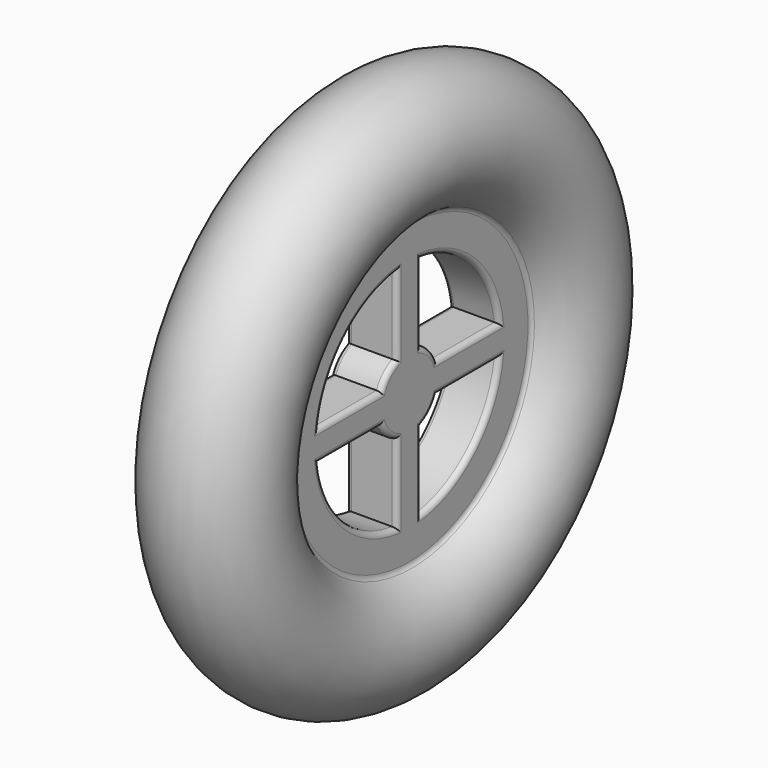
from build123d import *

# Parameters (mm, degrees)
F0_W     = 10
F0_H     = 30
F3_DEPTH = 25
F4_R     = 1
F5_R     = 1


with BuildPart() as f1:
    # F0 (on Front) → F1 (revolve)
    with BuildSketch(Plane.XZ):
        with Locations((-5, 15)):
            Rectangle(F0_W, F0_H)
        with BuildLine():
            ThreePointArc((0, 30), (-5, 53.956439), (-10, 30))
            Line((-10, 30), (0, 30))
        make_face()
    revolve(axis=Axis((-8.722244, 0, 0), (1, 0, 0)))

    # F2 (on Right) → F3 (cut)
    with BuildSketch(Plane.YZ):
        with BuildLine():
            Line((-3, 6.873864), (-3, 22.299103))
            ThreePointArc((-3, 22.299103), (-15.909903, 15.909903), (-22.299103, 3))
            Line((-22.299103, 3), (-6.873864, 3))
            ThreePointArc((-6.873864, 3), (-5.303301, 5.303301), (-3, 6.873864))
        make_face()
        with BuildLine():
            Line((6.873864, 3), (22.299103, 3))
            ThreePointArc((22.299103, 3), (15.909903, 15.909903), (3, 22.299103))
            Line((3, 22.299103), (3, 6.873864))
            ThreePointArc((3, 6.873864), (5.303301, 5.303301), (6.873864, 3))
        make_face()
        with BuildLine():
            Line((3, -6.873864), (3, -22.299103))
            ThreePointArc((3, -22.299103), (15.909903, -15.909903), (22.299103, -3))
            Line((22.299103, -3), (6.873864, -3))
            ThreePointArc((6.873864, -3), (5.303301, -5.303301), (3, -6.873864))
        make_face()
        with BuildLine():
            Line((-6.873864, -3), (-22.299103, -3))
            ThreePointArc((-22.299103, -3), (-15.909903, -15.909903), (-3, -22.299103))
            Line((-3, -22.299103), (-3, -6.873864))
            ThreePointArc((-3, -6.873864), (-5.303301, -5.303301), (-6.873864, -3))
        make_face()
    extrude(amount=-F3_DEPTH, mode=Mode.SUBTRACT)

    # F4
    f4_edges = [f1.edges().sort_by_distance(p)[0] for p in [
        (0, 0, -30),
        (0, 14.586483, 3),
        (0, 5.303301, 5.303301),
        (0, 3, 14.586483),
        (0, 15.909903, 15.909903),
        (0, 5.303301, -5.303301),
        (0, 14.586483, -3),
        (0, 15.909903, -15.909903),
        (0, 3, -14.586483),
        (0, -3, 14.586483),
        (0, -5.303301, 5.303301),
        (0, -14.586483, 3),
        (0, -15.909903, 15.909903),
        (0, -5.303301, -5.303301),
        (0, -3, -14.586483),
        (0, -15.909903, -15.909903),
        (0, -14.586483, -3),
    ]]
    fillet(f4_edges, radius=F4_R)

    # F5
    f5_edges = [f1.edges().sort_by_distance(p)[0] for p in [
        (-10, 0, -30),
        (-10, 3, -14.586483),
        (-10, 15.909903, -15.909903),
        (-10, 14.586483, -3),
        (-10, 5.303301, -5.303301),
        (-10, 15.909903, 15.909903),
        (-10, 3, 14.586483),
        (-10, 5.303301, 5.303301),
        (-10, 14.586483, 3),
        (-10, -14.586483, -3),
        (-10, -15.909903, -15.909903),
        (-10, -3, -14.586483),
        (-10, -5.303301, -5.303301),
        (-10, -15.909903, 15.909903),
        (-10, -14.586483, 3),
        (-10, -5.303301, 5.303301),
        (-10, -3, 14.586483),
    ]]
    fillet(f5_edges, radius=F5_R)


solid = f1.part
